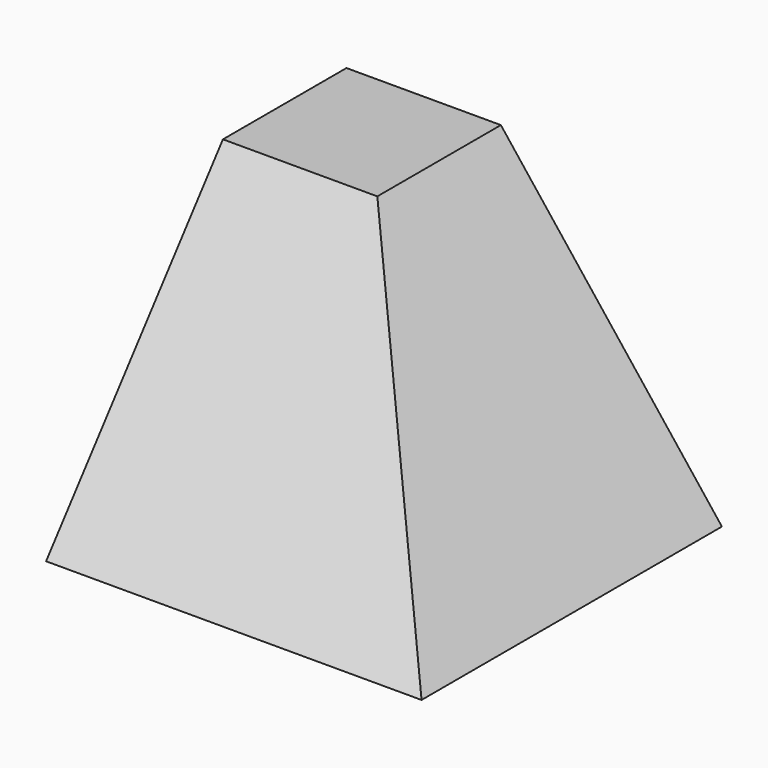
from build123d import *

# Parameters (mm, degrees)
BOX019_W     = 100
BOX019_H     = 100
BOX019_DEPTH = 75
SKETCH052_W  = 275
SKETCH052_H  = 275
SKETCH053_W  = 0.1
SKETCH053_H  = 0.1


with BuildPart() as cube001:
    # Box019 → Box019 (new body)
    with BuildSketch(Plane(origin=(175, 0, 0), x_dir=(1, 0, 0), z_dir=(0, 0, 1))):
        with Locations((50, 50)):
            Rectangle(BOX019_W, BOX019_H)
    extrude(amount=BOX019_DEPTH)


with BuildPart() as legs002:
    # Sketch052 → Loft018 section 0
    with BuildSketch(Plane.XY):
        with Locations((137.5, 137.5)):
            Rectangle(SKETCH052_W, SKETCH052_H)
    # Sketch053 → Loft018 section 1
    with BuildSketch(Plane.XY.offset(175.1)):
        with Locations((137.5, 137.5)):
            Rectangle(SKETCH053_W, SKETCH053_H)
    loft()

    # Common013: intersect Cube001
    add(cube001.part, mode=Mode.INTERSECT)


with BuildPart() as legs002_1:
    # Common013 placement: moved
    add(legs002.part.moved(Location((58.87, -58.87, -75))))


solid = legs002_1.part
